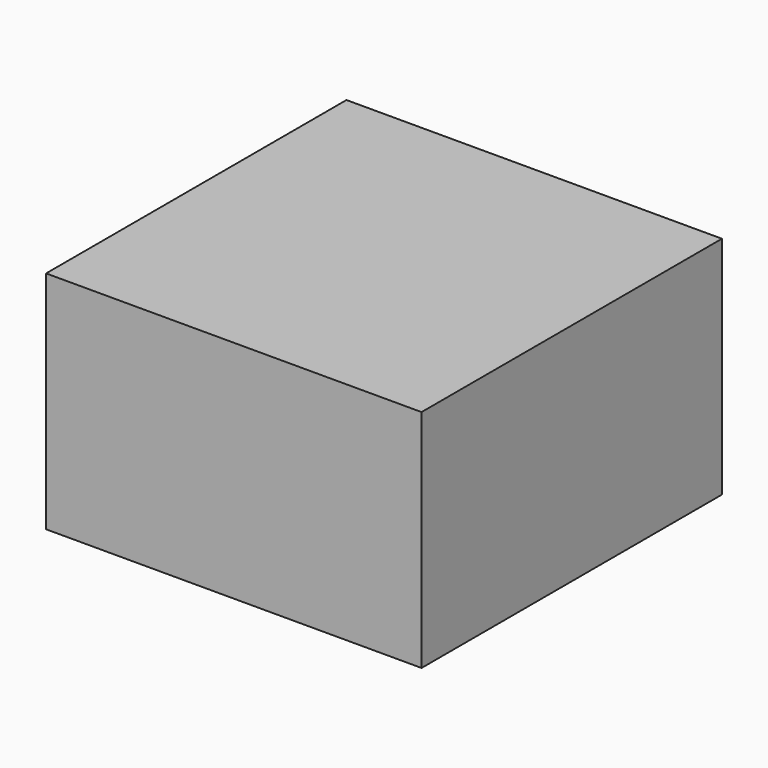
from build123d import *

# Parameters (mm, degrees)
F0_W     = 50
F0_H     = 50
F1_DEPTH = 30
F4_W     = 50
F4_H     = 50
F5_DEPTH = 10
F6_DEPTH = 10


with BuildPart() as f1:
    # F0 (on Top) → F1 (new body)
    with BuildSketch(Plane.XY):
        with Locations((25, 25)):
            Rectangle(F0_W, F0_H)
    extrude(amount=F1_DEPTH)

    # F2 (on face) → F3 (revolve, cut)
    with BuildSketch(Plane(origin=(0, 0, 0), x_dir=(1, 0, 0), z_dir=(0, 0, -1))):
        with BuildLine():
            ThreePointArc((25, -40), (35.6066017178, -35.6066017178), (40, -25))
            ThreePointArc((40, -25), (35.6066017178, -14.3933982822), (25, -10))
            Line((25, -10), (25, -40))
        make_face()
    revolve(axis=Axis((25, 25, 0), (0, 1, 0)), mode=Mode.SUBTRACT)

    # F4 (on face) → F5 (join)
    with BuildSketch(Plane(origin=(0, 0, 0), x_dir=(1, 0, 0), z_dir=(0, 0, -1))):
        with Locations((25, -25)):
            Rectangle(F4_W, F4_H)
        with BuildLine():
            ThreePointArc((25, -10), (40, -25), (25, -40))
            ThreePointArc((25, -40), (10, -25), (25, -10))
        make_face(mode=Mode.SUBTRACT)
    extrude(amount=F5_DEPTH)

    # F6 (cut): a face of the model
    f6_faces = [f1.faces().sort_by_distance(p)[0] for p in [
        (25, 25, 30),
    ]]
    extrude(f6_faces, amount=-F6_DEPTH, mode=Mode.SUBTRACT)


solid = f1.part
